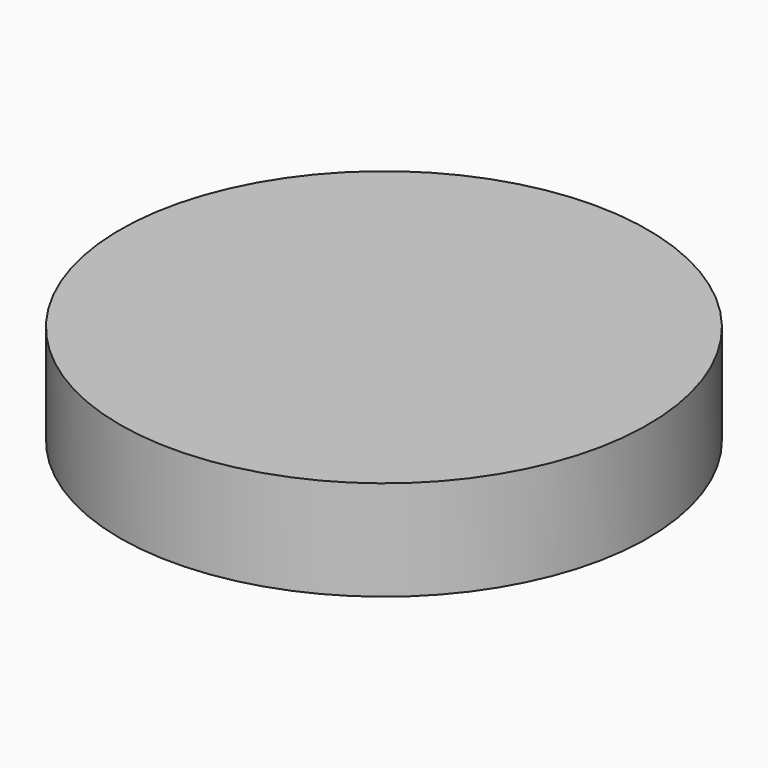
from build123d import *

# Parameters (mm, degrees)
F0_R     = 45
F0_R_2   = 1.6
F1_DEPTH = 1.6


with BuildPart() as f1:
    # F0 (on Top) → F1 (new body)
    with BuildSketch(Plane.XY):
        Circle(F0_R)
        with Locations((-15, -25.980762)):
            Circle(F0_R_2, mode=Mode.SUBTRACT)
        with Locations((15, -25.980762)):
            Circle(F0_R_2, mode=Mode.SUBTRACT)
        with Locations((-30, 0)):
            Circle(F0_R_2, mode=Mode.SUBTRACT)
        with Locations((-15, 25.980762)):
            Circle(F0_R_2, mode=Mode.SUBTRACT)
        with Locations((30, 0)):
            Circle(F0_R_2, mode=Mode.SUBTRACT)
        with Locations((15, 25.980762)):
            Circle(F0_R_2, mode=Mode.SUBTRACT)
    extrude(amount=F1_DEPTH)


with BuildPart() as f3:
    # F2 (on Right) → F3 (revolve)
    with BuildSketch(Plane.YZ):
        Polygon((0, 13.195376), (0, 7.072721), (50.036862, 7.072721), (50.036862, -8.128352), (56.370642, -8.128352), (56.370642, 13.195376), align=None)
    revolve(axis=Axis((0, 0, 10.134049), (0, 0, -1)))


solid = Compound([f1.part, f3.part])
